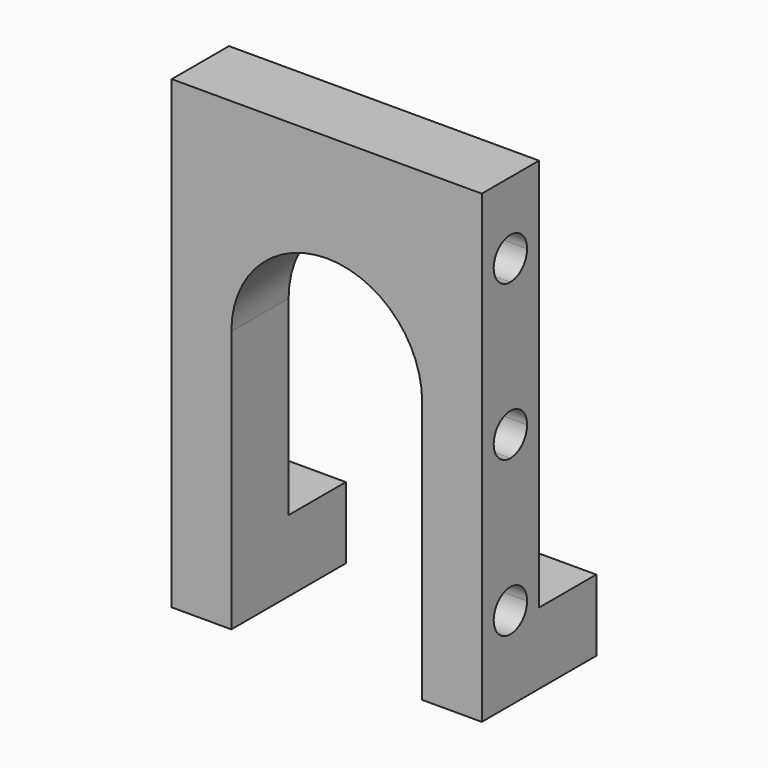
from build123d import *

# Parameters (mm, degrees)
F1_DEPTH = 152.4
F2_W     = 127
F2_H     = 152.4
F3_DEPTH = 152.4
F5_DEPTH = 76.2
F7_DEPTH = 76.2


with BuildPart() as f1:
    # F0 (on Front) → F1 (new body)
    with BuildSketch(Plane.XZ):
        with BuildLine():
            Line((-330.2, 495.3), (-330.2, -495.3))
            Line((-330.2, -495.3), (-203.2, -495.3))
            Line((-203.2, -495.3), (-203.2, 63.5))
            ThreePointArc((-203.2, 63.5), (0, 266.7), (203.2, 63.5))
            Line((203.2, 63.5), (203.2, -495.3))
            Line((203.2, -495.3), (330.2, -495.3))
            Line((330.2, -495.3), (330.2, 495.3))
            Line((330.2, 495.3), (-330.2, 495.3))
        make_face()
    extrude(amount=F1_DEPTH)

    # F2 (on face) → F3 (join)
    with BuildSketch(Plane(origin=(0, 0, 0), x_dir=(-1, 0, 0), z_dir=(0, 1, 0))):
        with Locations((-266.7, -419.1)):
            Rectangle(F2_W, F2_H)
        with Locations((266.7, -419.1)):
            Rectangle(F2_W, F2_H)
    extrude(amount=F3_DEPTH)

    # F4 (on face) → F5 (cut)
    with BuildSketch(Plane(origin=(-330.2, 0, 0), x_dir=(0, -1, 0), z_dir=(-1, 0, 0))):
        with BuildLine():
            ThreePointArc((76.2, 298.45), (107.630896, 311.469104), (120.65, 342.9))
            Line((120.65, 342.9), (76.2, 342.9))
            Line((76.2, 342.9), (76.2, 298.45))
        make_face()
        with BuildLine():
            Line((76.2, 342.9), (120.65, 342.9))
            ThreePointArc((120.65, 342.9), (44.769104, 374.330896), (76.2, 298.45))
            Line((76.2, 298.45), (76.2, 342.9))
        make_face()
        with BuildLine():
            ThreePointArc((124.425977, -317.5), (110.300915, -283.399085), (76.2, -269.274023))
            ThreePointArc((76.2, -269.274023), (42.099085, -351.600915), (124.425977, -317.5))
        make_face()
        with BuildLine():
            ThreePointArc((120.65, 12.7), (107.630896, 44.130896), (76.2, 57.15))
            Line((76.2, 57.15), (76.2, 12.7))
            Line((76.2, 12.7), (76.2, -31.75))
            ThreePointArc((76.2, -31.75), (107.630896, -18.730896), (120.65, 12.7))
        make_face()
        with BuildLine():
            Line((76.2, 12.7), (76.2, 57.15))
            ThreePointArc((76.2, 57.15), (31.75, 12.7), (76.2, -31.75))
            Line((76.2, -31.75), (76.2, 12.7))
        make_face()
    extrude(amount=-F5_DEPTH, mode=Mode.SUBTRACT)

    # F6 (on face) → F7 (cut)
    with BuildSketch(Plane.YZ.offset(330.2)):
        with BuildLine():
            ThreePointArc((-76.2, 298.45), (-44.769104, 311.469104), (-31.75, 342.9))
            ThreePointArc((-31.75, 342.9), (-107.630896, 374.330896), (-76.2, 298.45))
        make_face()
        with BuildLine():
            ThreePointArc((-31.75, -317.5), (-44.769104, -286.069104), (-76.2, -273.05))
            ThreePointArc((-76.2, -273.05), (-107.630896, -348.930896), (-31.75, -317.5))
        make_face()
        with BuildLine():
            ThreePointArc((-31.75, 12.7), (-44.769104, 44.130896), (-76.2, 57.15))
            Line((-76.2, 57.15), (-76.2, 12.7))
            Line((-76.2, 12.7), (-76.2, -31.75))
            ThreePointArc((-76.2, -31.75), (-44.769104, -18.730896), (-31.75, 12.7))
        make_face()
        with BuildLine():
            Line((-76.2, 12.7), (-76.2, 57.15))
            ThreePointArc((-76.2, 57.15), (-120.65, 12.7), (-76.2, -31.75))
            Line((-76.2, -31.75), (-76.2, 12.7))
        make_face()
    extrude(amount=-F7_DEPTH, mode=Mode.SUBTRACT)


solid = f1.part
